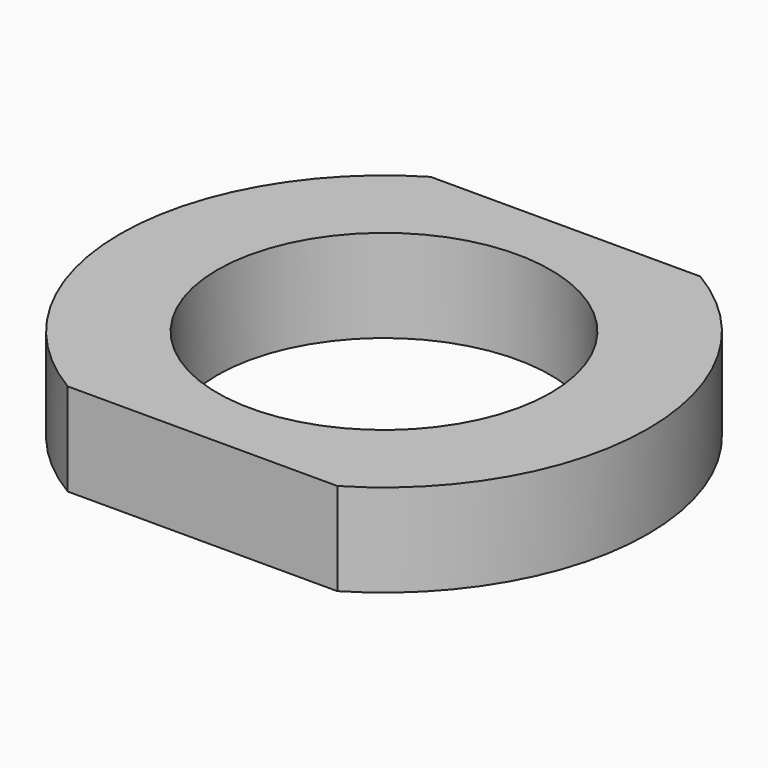
from build123d import *

# Parameters (mm, degrees)
CIRCLE_R         = 3.6
EXTRUDE004_DEPTH = 2
CIRCLE002_R      = 3.5
EXTRUDE002_DEPTH = 2
CIRCLE003_R      = 5.7
EXTRUDE003_DEPTH = 2
RECTANGLE_W      = 25.8
RECTANGLE_H      = 9.8
EXTRUDE_DEPTH    = 2


with BuildPart() as extrude004:
    # Circle → Extrude004 (new body)
    with BuildSketch(Plane.XY.offset(2)):
        Circle(CIRCLE_R)
    extrude(amount=-EXTRUDE004_DEPTH)


with BuildPart() as extrude002:
    # Circle002 (on Rectangle) → Extrude002 (new body)
    with BuildSketch(Plane(origin=(26.064868, 8.047387, 0), x_dir=(1, 0, 0), z_dir=(0, 0, -1))):
        Circle(CIRCLE002_R)
    extrude(amount=-EXTRUDE002_DEPTH)


with BuildPart() as cut001:
    # Circle003 → Extrude003 (new body)
    with BuildSketch(Plane(origin=(26.064868, 8.047387, 0), x_dir=(1, 0, 0), z_dir=(0, 0, -1))):
        Circle(CIRCLE003_R)
    extrude(amount=-EXTRUDE003_DEPTH)

    # Cut001: cut Extrude002
    add(extrude002.part, mode=Mode.SUBTRACT)


with BuildPart() as cut001_1:
    # Cut001 placement: moved
    add(cut001.part.moved(Location((-26.064868, -8.047387, 0))))


with BuildPart() as cut:
    # Rectangle → Extrude (new body)
    with BuildSketch(Plane(origin=(-12.9, 4.9, 0), x_dir=(1, 0, 0), z_dir=(0, 0, -1))):
        with Locations((12.9, 4.9)):
            Rectangle(RECTANGLE_W, RECTANGLE_H)
    extrude(amount=-EXTRUDE_DEPTH)

    # Common: intersect Cut001
    add(cut001_1.part, mode=Mode.INTERSECT)

    # Cut: cut Extrude004
    add(extrude004.part, mode=Mode.SUBTRACT)


solid = cut.part
